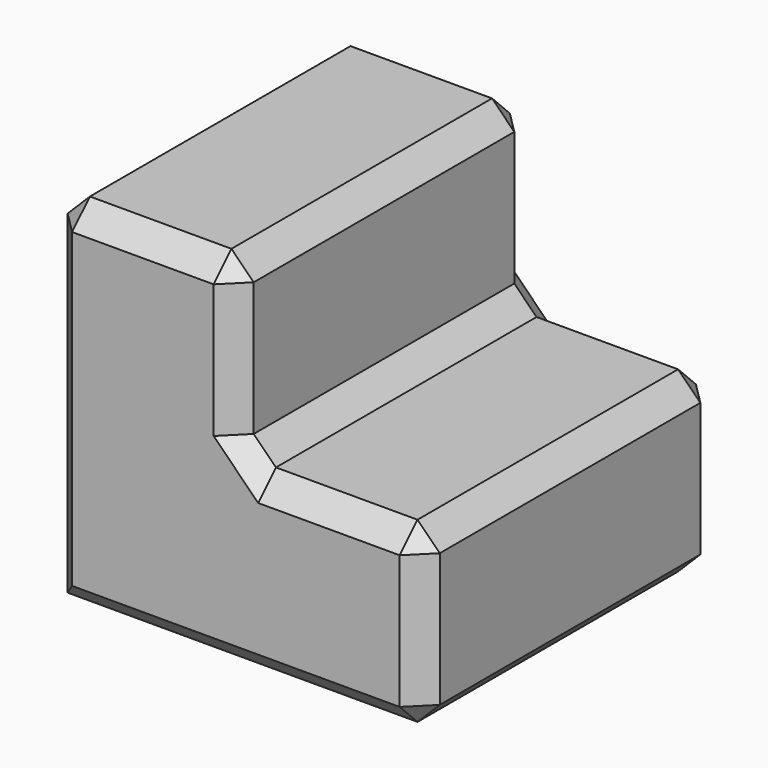
from build123d import *

# Parameters (mm, degrees)
F0_W     = 83.6216490716
F0_H     = 83.1985995173
F1_DEPTH = 40
F2_W     = 41.8108245358
F2_H     = 83.1985995173
F3_DEPTH = 40
F4_SIZE  = 5


with BuildPart() as f1:
    # F0 (on Top) → F1 (new body)
    with BuildSketch(Plane.XY):
        with Locations((-17.3164242879, -4.335001111)):
            Rectangle(F0_W, F0_H)
    extrude(amount=F1_DEPTH)

    # F2 (on face) → F3 (join)
    with BuildSketch(Plane.XY.offset(40)):
        with Locations((-38.2218365557, -4.335001111)):
            Rectangle(F2_W, F2_H)
    extrude(amount=F3_DEPTH)

    # F4
    f4_edges = [f1.edges().sort_by_distance(p)[0] for p in [
        (-17.316424, -4.335001, 80),
        (-38.221837, 37.264299, 80),
        (-59.127249, -4.335001, 80),
        (-38.221837, -45.934301, 80),
        (-59.127249, -45.934301, 40),
        (-17.316424, -45.934301, 60),
        (3.588988, -45.934301, 40),
        (24.4944, -45.934301, 20),
        (-17.316424, -45.934301, 0),
        (3.588988, 37.264299, 40),
        (24.4944, -4.335001, 40),
        (-17.316424, -4.335001, 40),
        (-17.316424, 37.264299, 60),
        (24.4944, 37.264299, 20),
        (24.4944, -4.335001, 0),
        (-59.127249, 37.264299, 40),
        (-17.316424, 37.264299, 0),
    ]]
    chamfer(f4_edges, length=F4_SIZE)


solid = f1.part
